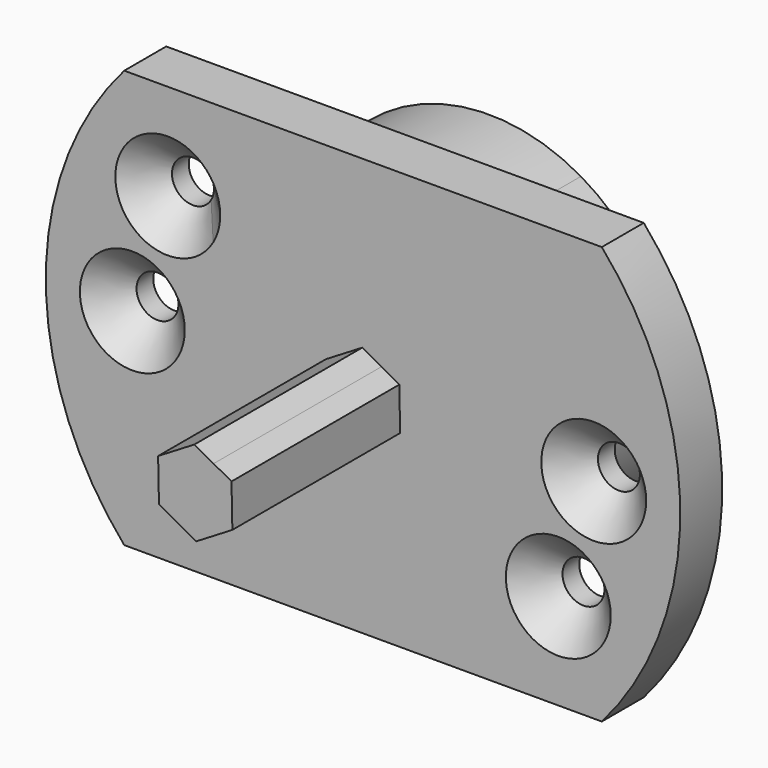
from build123d import *

# Parameters (mm, degrees)
F0_R          = 2
F1_DEPTH      = 5
F2_DEPTH      = 5
F2_DEPTH_BACK = 10
F3_SIZE       = 3
F4_DEPTH      = 25
F5_START      = -2
F5_DEPTH      = 8


with BuildPart() as f1:
    # F0 (on Front) → F1 (new body)
    with BuildSketch(Plane.XZ):
        with BuildLine():
            ThreePointArc((22.7699238258, -19.9146445855), (28.3183041135, -10.6365479426), (30.25, 0))
            ThreePointArc((30.25, 0), (28.3183041135, 10.6365479426), (22.7699238258, 19.9146445855))
            Line((22.7699238258, 19.9146445855), (-22.7699238258, 19.9146445855))
            ThreePointArc((-22.7699238258, 19.9146445855), (-30.25, 0), (-22.7699238258, -19.9146445855))
            Line((-22.7699238258, -19.9146445855), (22.7699238258, -19.9146445855))
        make_face()
        with Locations((18.6195461814, -10.75)):
            Circle(F0_R, mode=Mode.SUBTRACT)
        with Locations((-22, 0)):
            Circle(F0_R, mode=Mode.SUBTRACT)
        with BuildLine():
            ThreePointArc((-16.6195461814, 10.75), (-16.6876945288, 10.2323619098), (-16.8874953738, 9.75))
            ThreePointArc((-16.8874953738, 9.75), (-20.5513978339, 11.2676380902), (-16.6195461814, 10.75))
        make_face(mode=Mode.SUBTRACT)
        with BuildLine():
            ThreePointArc((8.775, 15.1987458364), (15.1987458364, 8.775), (17.55, 0))
            ThreePointArc((17.55, 0), (-4.5422742415, -16.9519982514), (-15.1987458364, 8.775))
            ThreePointArc((-15.1987458364, 8.775), (-4.5422742415, 16.9519982514), (8.775, 15.1987458364))
        make_face(mode=Mode.SUBTRACT)
        with Locations((22, 0)):
            Circle(F0_R, mode=Mode.SUBTRACT)
        with BuildLine():
            ThreePointArc((-15.1987458364, 8.775), (-4.5422742415, -16.9519982514), (17.55, 0))
            ThreePointArc((17.55, 0), (15.1987458364, 8.775), (8.775, 15.1987458364))
            Line((8.775, 15.1987458364), (1.7503574183, 3.0317079799))
            Line((1.7503574183, 3.0317079799), (3.4584509937, 2.0910404247))
            Line((3.4584509937, 2.0910404247), (3.540119625, -1.9495862059))
            Line((3.540119625, -1.9495862059), (0.0816686313, -4.0406266306))
            Line((0.0816686313, -4.0406266306), (-3.4584509937, -2.0910404247))
            Line((-3.4584509937, -2.0910404247), (-3.540119625, 1.9495862059))
            Line((-3.540119625, 1.9495862059), (-3.4603350445, 1.9978253694))
            Line((-3.4603350445, 1.9978253694), (-15.1987458364, 8.775))
        make_face()
        with BuildLine():
            Line((1.7503574183, 3.0317079799), (8.775, 15.1987458364))
            ThreePointArc((8.775, 15.1987458364), (-4.5422742415, 16.9519982514), (-15.1987458364, 8.775))
            Line((-15.1987458364, 8.775), (-3.4603350445, 1.9978253694))
            Line((-3.4603350445, 1.9978253694), (-0.0816686313, 4.0406266306))
            Line((-0.0816686313, 4.0406266306), (1.7503574183, 3.0317079799))
        make_face()
        with BuildLine():
            Line((3.4584509937, 2.0910404247), (1.7503574183, 3.0317079799))
            Line((1.7503574183, 3.0317079799), (1.5, 2.5980762114))
            ThreePointArc((1.5, 2.5980762114), (2.5980762114, 1.5), (3, 0))
            ThreePointArc((3, 0), (-0.7764571353, -2.8977774789), (-2.5980762114, 1.5))
            Line((-2.5980762114, 1.5), (-3.4603350445, 1.9978253694))
            Line((-3.4603350445, 1.9978253694), (-3.540119625, 1.9495862059))
            Line((-3.540119625, 1.9495862059), (-3.4584509937, -2.0910404247))
            Line((-3.4584509937, -2.0910404247), (0.0816686313, -4.0406266306))
            Line((0.0816686313, -4.0406266306), (3.540119625, -1.9495862059))
            Line((3.540119625, -1.9495862059), (3.4584509937, 2.0910404247))
        make_face()
        with BuildLine():
            Line((0, 0), (1.5, 2.5980762114))
            ThreePointArc((1.5, 2.5980762114), (-0.7764571353, 2.8977774789), (-2.5980762114, 1.5))
            Line((-2.5980762114, 1.5), (0, 0))
        make_face()
        with BuildLine():
            Line((1.5, 2.5980762114), (1.7503574183, 3.0317079799))
            Line((1.7503574183, 3.0317079799), (-0.0816686313, 4.0406266306))
            Line((-0.0816686313, 4.0406266306), (-3.4603350445, 1.9978253694))
            Line((-3.4603350445, 1.9978253694), (-2.5980762114, 1.5))
            ThreePointArc((-2.5980762114, 1.5), (-0.7764571353, 2.8977774789), (1.5, 2.5980762114))
        make_face()
        with BuildLine():
            ThreePointArc((3, 0), (2.5980762114, 1.5), (1.5, 2.5980762114))
            Line((1.5, 2.5980762114), (0, 0))
            Line((0, 0), (-2.5980762114, 1.5))
            ThreePointArc((-2.5980762114, 1.5), (-0.7764571353, -2.8977774789), (3, 0))
        make_face()
    extrude(amount=F1_DEPTH)

    # F0 (on Front) → F2 (join, two sides)
    with BuildSketch(Plane.XZ) as f2_sk:
        with BuildLine():
            Line((0, 0), (1.5, 2.5980762114))
            ThreePointArc((1.5, 2.5980762114), (-0.7764571353, 2.8977774789), (-2.5980762114, 1.5))
            Line((-2.5980762114, 1.5), (0, 0))
        make_face()
        with BuildLine():
            ThreePointArc((3, 0), (2.5980762114, 1.5), (1.5, 2.5980762114))
            Line((1.5, 2.5980762114), (0, 0))
            Line((0, 0), (-2.5980762114, 1.5))
            ThreePointArc((-2.5980762114, 1.5), (-0.7764571353, -2.8977774789), (3, 0))
        make_face()
        with BuildLine():
            Line((3.4584509937, 2.0910404247), (1.7503574183, 3.0317079799))
            Line((1.7503574183, 3.0317079799), (1.5, 2.5980762114))
            ThreePointArc((1.5, 2.5980762114), (2.5980762114, 1.5), (3, 0))
            ThreePointArc((3, 0), (-0.7764571353, -2.8977774789), (-2.5980762114, 1.5))
            Line((-2.5980762114, 1.5), (-3.4603350445, 1.9978253694))
            Line((-3.4603350445, 1.9978253694), (-3.540119625, 1.9495862059))
            Line((-3.540119625, 1.9495862059), (-3.4584509937, -2.0910404247))
            Line((-3.4584509937, -2.0910404247), (0.0816686313, -4.0406266306))
            Line((0.0816686313, -4.0406266306), (3.540119625, -1.9495862059))
            Line((3.540119625, -1.9495862059), (3.4584509937, 2.0910404247))
        make_face()
        with BuildLine():
            Line((1.5, 2.5980762114), (1.7503574183, 3.0317079799))
            Line((1.7503574183, 3.0317079799), (-0.0816686313, 4.0406266306))
            Line((-0.0816686313, 4.0406266306), (-3.4603350445, 1.9978253694))
            Line((-3.4603350445, 1.9978253694), (-2.5980762114, 1.5))
            ThreePointArc((-2.5980762114, 1.5), (-0.7764571353, 2.8977774789), (1.5, 2.5980762114))
        make_face()
        with BuildLine():
            ThreePointArc((-15.1987458364, 8.775), (-4.5422742415, -16.9519982514), (17.55, 0))
            ThreePointArc((17.55, 0), (15.1987458364, 8.775), (8.775, 15.1987458364))
            Line((8.775, 15.1987458364), (1.7503574183, 3.0317079799))
            Line((1.7503574183, 3.0317079799), (3.4584509937, 2.0910404247))
            Line((3.4584509937, 2.0910404247), (3.540119625, -1.9495862059))
            Line((3.540119625, -1.9495862059), (0.0816686313, -4.0406266306))
            Line((0.0816686313, -4.0406266306), (-3.4584509937, -2.0910404247))
            Line((-3.4584509937, -2.0910404247), (-3.540119625, 1.9495862059))
            Line((-3.540119625, 1.9495862059), (-3.4603350445, 1.9978253694))
            Line((-3.4603350445, 1.9978253694), (-15.1987458364, 8.775))
        make_face()
        with BuildLine():
            Line((1.7503574183, 3.0317079799), (8.775, 15.1987458364))
            ThreePointArc((8.775, 15.1987458364), (-4.5422742415, 16.9519982514), (-15.1987458364, 8.775))
            Line((-15.1987458364, 8.775), (-3.4603350445, 1.9978253694))
            Line((-3.4603350445, 1.9978253694), (-0.0816686313, 4.0406266306))
            Line((-0.0816686313, 4.0406266306), (1.7503574183, 3.0317079799))
        make_face()
    extrude(amount=F2_DEPTH)
    extrude(f2_sk.sketch, amount=-F2_DEPTH_BACK)

    # F3
    f3_edges = [f1.edges().sort_by_distance(p)[0] for p in [
        (-20.619546, -5, 10.75),
        (16.619546, -5, -10.75),
        (20, -5, 0),
        (-24, -5, 0),
    ]]
    chamfer(f3_edges, length=F3_SIZE)

    # F0 (on Front) → F4 (join)
    with BuildSketch(Plane.XZ):
        with BuildLine():
            Line((1.5, 2.5980762114), (1.7503574183, 3.0317079799))
            Line((1.7503574183, 3.0317079799), (-0.0816686313, 4.0406266306))
            Line((-0.0816686313, 4.0406266306), (-3.4603350445, 1.9978253694))
            Line((-3.4603350445, 1.9978253694), (-2.5980762114, 1.5))
            ThreePointArc((-2.5980762114, 1.5), (-0.7764571353, 2.8977774789), (1.5, 2.5980762114))
        make_face()
        with BuildLine():
            Line((3.4584509937, 2.0910404247), (1.7503574183, 3.0317079799))
            Line((1.7503574183, 3.0317079799), (1.5, 2.5980762114))
            ThreePointArc((1.5, 2.5980762114), (2.5980762114, 1.5), (3, 0))
            ThreePointArc((3, 0), (-0.7764571353, -2.8977774789), (-2.5980762114, 1.5))
            Line((-2.5980762114, 1.5), (-3.4603350445, 1.9978253694))
            Line((-3.4603350445, 1.9978253694), (-3.540119625, 1.9495862059))
            Line((-3.540119625, 1.9495862059), (-3.4584509937, -2.0910404247))
            Line((-3.4584509937, -2.0910404247), (0.0816686313, -4.0406266306))
            Line((0.0816686313, -4.0406266306), (3.540119625, -1.9495862059))
            Line((3.540119625, -1.9495862059), (3.4584509937, 2.0910404247))
        make_face()
        with BuildLine():
            ThreePointArc((3, 0), (2.5980762114, 1.5), (1.5, 2.5980762114))
            Line((1.5, 2.5980762114), (0, 0))
            Line((0, 0), (-2.5980762114, 1.5))
            ThreePointArc((-2.5980762114, 1.5), (-0.7764571353, -2.8977774789), (3, 0))
        make_face()
        with BuildLine():
            Line((0, 0), (1.5, 2.5980762114))
            ThreePointArc((1.5, 2.5980762114), (-0.7764571353, 2.8977774789), (-2.5980762114, 1.5))
            Line((-2.5980762114, 1.5), (0, 0))
        make_face()
    extrude(amount=F4_DEPTH)

    # F0 (on Front) → F5 (cut)
    with BuildSketch(Plane.XZ.offset(F5_START)):
        with BuildLine():
            ThreePointArc((3, 0), (2.5980762114, 1.5), (1.5, 2.5980762114))
            Line((1.5, 2.5980762114), (0, 0))
            Line((0, 0), (-2.5980762114, 1.5))
            ThreePointArc((-2.5980762114, 1.5), (-0.7764571353, -2.8977774789), (3, 0))
        make_face()
        with BuildLine():
            Line((0, 0), (1.5, 2.5980762114))
            ThreePointArc((1.5, 2.5980762114), (-0.7764571353, 2.8977774789), (-2.5980762114, 1.5))
            Line((-2.5980762114, 1.5), (0, 0))
        make_face()
    extrude(amount=-F5_DEPTH, mode=Mode.SUBTRACT)


solid = f1.part
